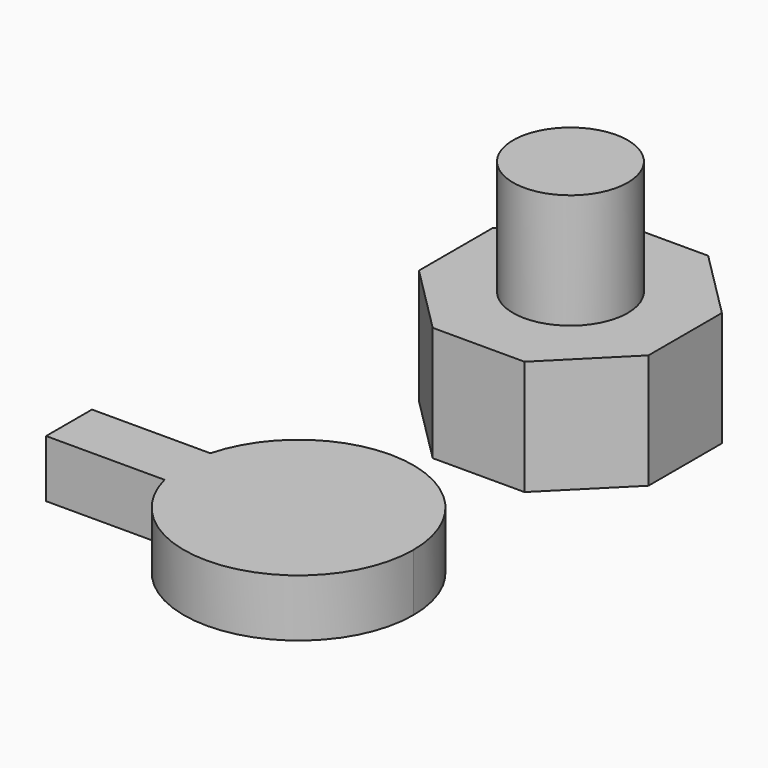
from build123d import *

# Parameters (mm, degrees)
F0_R     = 12.7
F0_W     = 50.8
F0_H     = 50.8
F1_DEPTH = 25.4
F2_DEPTH = 50.8
F3_SIZE  = 15.24
F5_DEPTH = 12.7
F6_DEPTH = 6.35


with BuildPart() as f1:
    # F0 (on Top) → F1 (new body)
    with BuildSketch(Plane.XY):
        Circle(F0_R)
        Rectangle(F0_W, F0_H)
        Circle(F0_R, mode=Mode.SUBTRACT)
    extrude(amount=F1_DEPTH)

    # F0 (on Top) → F2 (join)
    with BuildSketch(Plane.XY):
        Circle(F0_R)
    extrude(amount=F2_DEPTH)

    # F3
    f3_edges = [f1.edges().sort_by_distance(p)[0] for p in [
        (-25.4, -25.4, 12.7),
        (25.4, -25.4, 12.7),
        (25.4, 25.4, 12.7),
        (-25.4, 25.4, 12.7),
    ]]
    chamfer(f3_edges, length=F3_SIZE)


with BuildPart() as f5:
    # F4 (on Top) → F5 (new body)
    with BuildSketch(Plane.XY):
        with BuildLine():
            ThreePointArc((-26.066263, -79.712681), (-26.872819, -73.362681), (-26.066263, -67.012681))
            Line((-26.066263, -67.012681), (-52.272819, -67.012681))
            Line((-52.272819, -67.012681), (-52.272819, -79.712681))
            Line((-52.272819, -79.712681), (-26.066263, -79.712681))
        make_face()
        with BuildLine():
            Line((-12.471342, -67.012681), (-26.066263, -67.012681))
            ThreePointArc((-26.066263, -67.012681), (-26.872819, -73.362681), (-26.066263, -79.712681))
            Line((-26.066263, -79.712681), (-12.471342, -79.712681))
            ThreePointArc((-12.471342, -79.712681), (-14.172819, -73.362681), (-12.471342, -67.012681))
        make_face()
        with BuildLine():
            ThreePointArc((-26.066263, -79.712681), (1.72769, -98.560236), (23.927181, -73.362681))
            ThreePointArc((23.927181, -73.362681), (1.72769, -48.165127), (-26.066263, -67.012681))
            Line((-26.066263, -67.012681), (-12.471342, -67.012681))
            ThreePointArc((-12.471342, -67.012681), (1.814183, -61.095423), (11.227181, -73.362681))
            ThreePointArc((11.227181, -73.362681), (1.814183, -85.629939), (-12.471342, -79.712681))
            Line((-12.471342, -79.712681), (-26.066263, -79.712681))
        make_face()
        with BuildLine():
            Line((-1.472819, -67.012681), (-12.471342, -67.012681))
            ThreePointArc((-12.471342, -67.012681), (-14.172819, -73.362681), (-12.471342, -79.712681))
            Line((-12.471342, -79.712681), (-1.472819, -79.712681))
            Line((-1.472819, -79.712681), (-1.472819, -67.012681))
        make_face()
        with BuildLine():
            ThreePointArc((11.227181, -73.362681), (1.814183, -61.095423), (-12.471342, -67.012681))
            Line((-12.471342, -67.012681), (-1.472819, -67.012681))
            Line((-1.472819, -67.012681), (-1.472819, -79.712681))
            Line((-1.472819, -79.712681), (-12.471342, -79.712681))
            ThreePointArc((-12.471342, -79.712681), (1.814183, -85.629939), (11.227181, -73.362681))
        make_face()
    extrude(amount=F5_DEPTH)

    # F4 (on Top) → F6 (cut)
    with BuildSketch(Plane.XY):
        with BuildLine():
            ThreePointArc((11.227181, -73.362681), (1.814183, -61.095423), (-12.471342, -67.012681))
            Line((-12.471342, -67.012681), (-1.472819, -67.012681))
            Line((-1.472819, -67.012681), (-1.472819, -79.712681))
            Line((-1.472819, -79.712681), (-12.471342, -79.712681))
            ThreePointArc((-12.471342, -79.712681), (1.814183, -85.629939), (11.227181, -73.362681))
        make_face()
        with BuildLine():
            Line((-1.472819, -67.012681), (-12.471342, -67.012681))
            ThreePointArc((-12.471342, -67.012681), (-14.172819, -73.362681), (-12.471342, -79.712681))
            Line((-12.471342, -79.712681), (-1.472819, -79.712681))
            Line((-1.472819, -79.712681), (-1.472819, -67.012681))
        make_face()
    extrude(amount=F6_DEPTH, mode=Mode.SUBTRACT)


solid = Compound([f1.part, f5.part])
